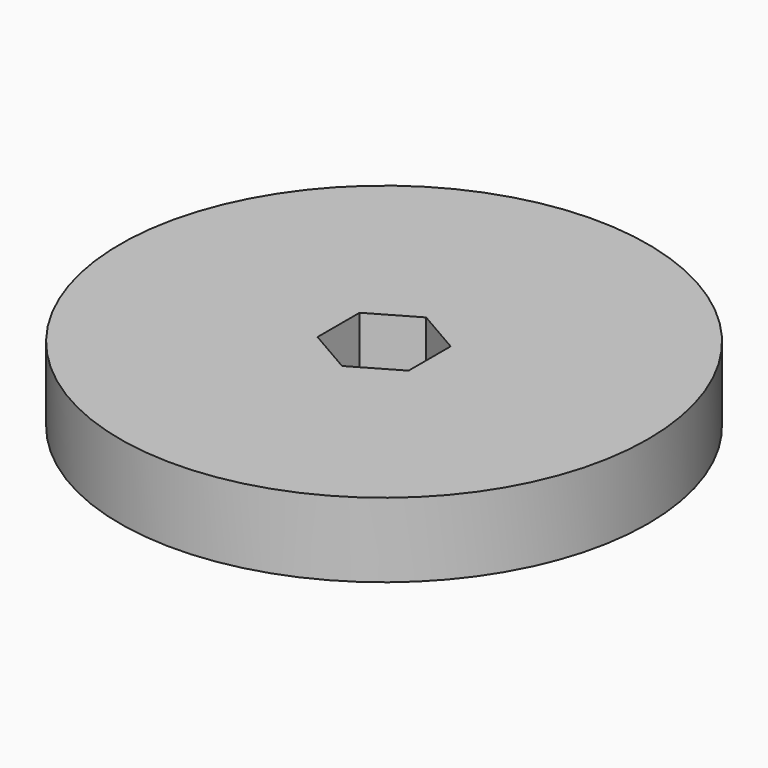
from build123d import *

# Parameters (mm, degrees)
SKETCH_R  = 36
PAD_DEPTH = 10.15


with BuildPart() as part:
    # Sketch → Pad (new body)
    with BuildSketch(Plane.XY):
        Circle(SKETCH_R)
        Polygon((0, 7.17), (-6.209402, 3.585), (-6.209402, -3.585), (0, -7.17), (6.209402, -3.585), (6.209402, 3.585), align=None, mode=Mode.SUBTRACT)
    extrude(amount=PAD_DEPTH)


solid = part.part
